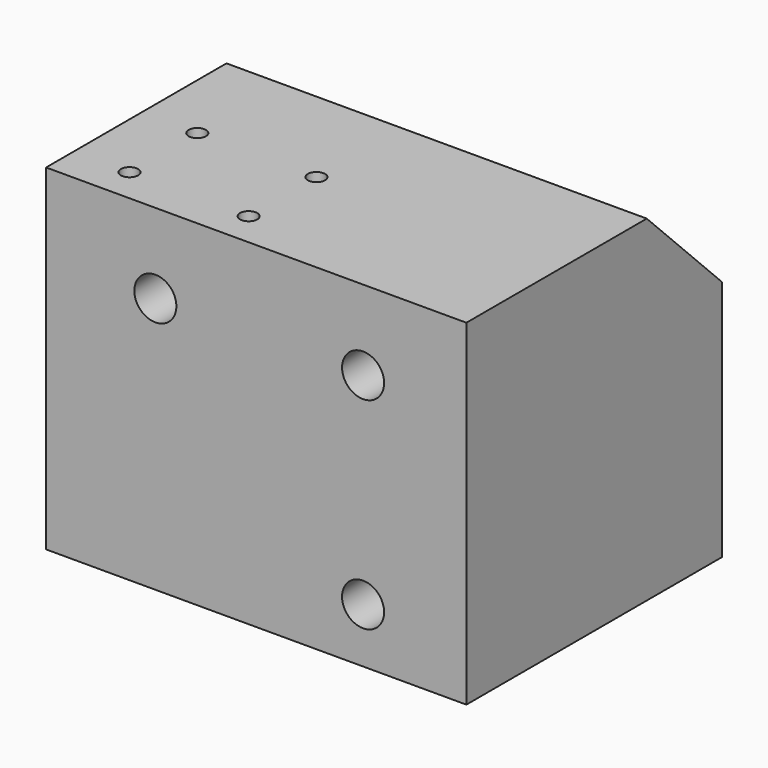
from build123d import *

# Parameters (mm, degrees)
F1_DEPTH = 79.375
F3_D     = 15.875
F3_DEPTH = 50.8
F3_TIP   = 4.7693311635
F5_D     = 6.5278
F5_DEPTH = 20.32
F5_TIP   = 1.9611489744


with BuildPart() as f1:
    # F0 (on Right) → F1 (new body, symmetric)
    with BuildSketch(Plane.YZ):
        Polygon((60.325, 28.0162), (24.8412, 63.5), (-60.325, 63.5), (-60.325, -63.5), (60.325, -63.5), align=None)
    extrude(amount=F1_DEPTH, both=True)

    # F3
    with Locations(Plane.XZ.offset(60.325)):
        with Locations((-38.1, 33.3375), (40.3606, 33.3375), (40.3606, -42.8625)):
            Hole(F3_D / 2, depth=F3_DEPTH)
            with Locations((0, 0, -(F3_DEPTH + F3_TIP / 2))):  # 118° drill point
                Cone(0, F3_D / 2, F3_TIP, mode=Mode.SUBTRACT)

    # F5
    with Locations(Plane.XY.offset(63.5)):
        with Locations((-58.2676, -15.3162), (-58.2676, -47.3202), (-13.2588, -47.3202), (-13.2588, -15.3162)):
            Hole(F5_D / 2, depth=F5_DEPTH)
            with Locations((0, 0, -(F5_DEPTH + F5_TIP / 2))):  # 118° drill point
                Cone(0, F5_D / 2, F5_TIP, mode=Mode.SUBTRACT)


solid = f1.part
